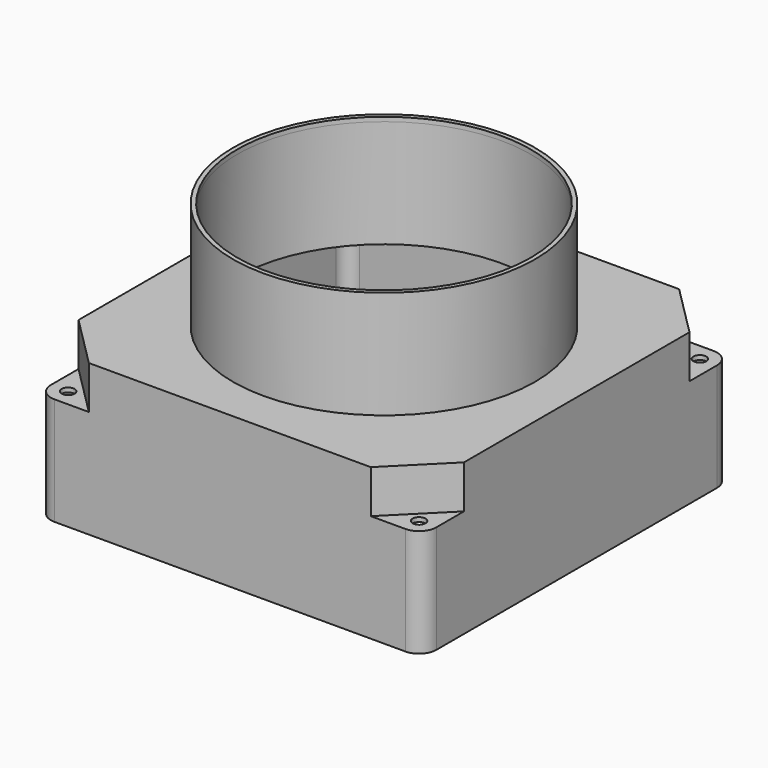
from build123d import *

# Parameters (mm, degrees)
F0_W      = 89.3173888326
F0_H      = 89.3173888326
F1_DEPTH  = 25
F3_DEPTH  = 10
F4_R      = 35
F5_DEPTH  = 25
F6_R      = 4
F7_T      = -1
F8_DEPTH  = 41.7
F9_R      = 1.5
F10_DEPTH = 3.8
F12_COUNT = 4


with BuildPart() as f1:
    # F0 (on Top) → F1 (new body)
    with BuildSketch(Plane.XY):
        Rectangle(F0_W, F0_H)
    extrude(amount=F1_DEPTH)

    # F2 (on face) → F3 (join)
    with BuildSketch(Plane.XY.offset(25)):
        Polygon((32.6586944163, 44.6586944163), (-32.6586944163, 44.6586944163), (-44.6586944163, 32.6586944163), (-44.6586944163, -32.6586944163), (-32.6586944163, -44.6586944163), (32.6586944163, -44.6586944163), (44.6586944163, -32.6586944163), (44.6586944163, 32.6586944163), align=None)
    extrude(amount=F3_DEPTH)

    # F4 (on face) → F5 (join)
    with BuildSketch(Plane.XY.offset(35)):
        Circle(F4_R)
    extrude(amount=F5_DEPTH)

    # F6
    f6_edges = [f1.edges().sort_by_distance(p)[0] for p in [
        (44.658694, 44.658694, 12.5),
        (44.658694, -44.658694, 12.5),
        (-44.658694, -44.658694, 12.5),
        (-44.658694, 44.658694, 12.5),
    ]]
    fillet(f6_edges, radius=F6_R)

    # F7
    f7_openings = [f1.faces().sort_by_distance(p)[0] for p in [
        (0, 0, 0),
    ]]
    offset(amount=F7_T, openings=f7_openings, kind=Kind.INTERSECTION)

    # F8 (cut): a face of the model
    f8_faces = [f1.faces().sort_by_distance(p)[0] for p in [
        (0, 0, 59),
    ]]
    extrude(f8_faces, amount=-F8_DEPTH, mode=Mode.SUBTRACT)


with BuildPart() as f10:
    # F9 (on face) → F10 (new body, symmetric)
    with BuildSketch(Plane.XY.offset(25)):
        with Locations((-40.6586944163, 40.6586944163)):
            Circle(F9_R)
    extrude(amount=F10_DEPTH, both=True)


with BuildPart() as f12_1:
    # F12: instance of F10
    add(f10.part.rotate(Axis((0, 0, 19.2969664931), (0, 0, 1)), 1 * 360 / F12_COUNT))


with BuildPart() as f12_2:
    # F12: instance of F10
    add(f10.part.rotate(Axis((0, 0, 19.2969664931), (0, 0, 1)), 2 * 360 / F12_COUNT))


with BuildPart() as f12_3:
    # F12: instance of F10
    add(f10.part.rotate(Axis((0, 0, 19.2969664931), (0, 0, 1)), 3 * 360 / F12_COUNT))


with BuildPart() as f1_1:
    add(f1.part)

    # F13: cut F10, F12_3, F12_2, F12_1
    add(f10.part, mode=Mode.SUBTRACT)
    add(f12_3.part, mode=Mode.SUBTRACT)
    add(f12_2.part, mode=Mode.SUBTRACT)
    add(f12_1.part, mode=Mode.SUBTRACT)


solid = f1_1.part
